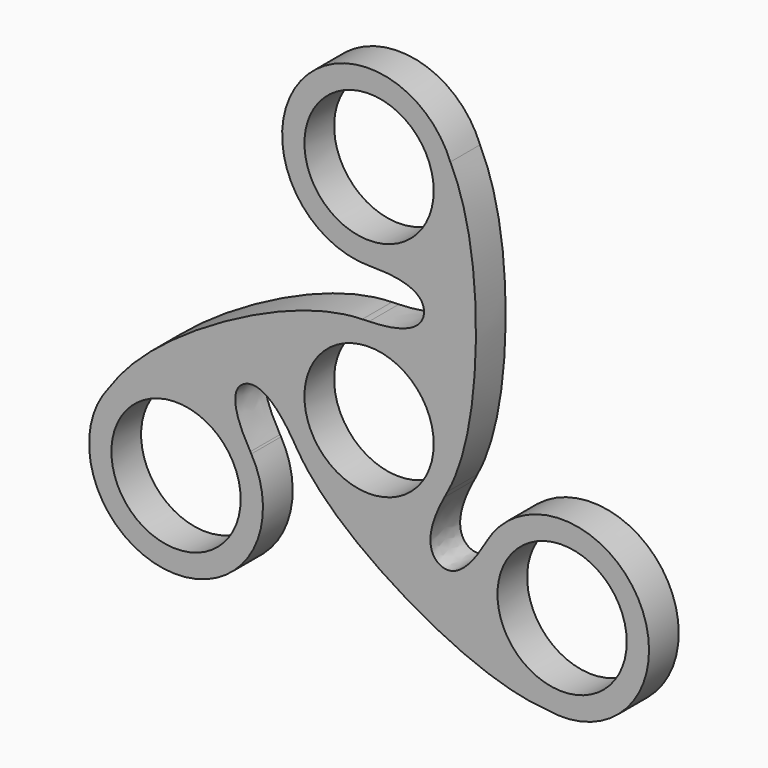
from build123d import *

# Parameters (mm, degrees)
F0_R     = 11.049
F1_DEPTH = 6.35
F2_COUNT = 3


with BuildPart() as f1:
    # F0 (on Front) → F1 (new body)
    with BuildSketch(Plane.XZ):
        with BuildLine():
            ThreePointArc((13.4135974742, -6.3925960142), (14.4931453775, -3.2769830737), (14.859, 0))
            ThreePointArc((14.859, 0), (10.5068996617, 10.5068996617), (0, 14.859))
            ThreePointArc((0, 14.859), (-12.5653783305, -7.9310244239), (13.4135974742, -6.3925960142))
        make_face()
        Circle(F0_R, mode=Mode.SUBTRACT)
        with BuildLine():
            ThreePointArc((0, 14.859), (10.5068996617, 10.5068996617), (14.859, 0))
            ThreePointArc((14.859, 0), (14.4931453775, -3.2769830737), (13.4135974742, -6.3925960142))
            add(Edge.make_bspline(
                [(13.8910684655, 43.3752343916), (16.9254968995, 37.3473139952), (19.6098146021, 19.8327864519), (16.9512654312, 0), (13.4135974742, -6.3925960142)],
                knots=[0, 0, 0, 0, 0.4877073649, 1, 1, 1, 1], degree=3))
            ThreePointArc((13.8910684655, 43.3752343916), (14.615013981, 40.7816501143), (14.859, 38.1))
            ThreePointArc((14.859, 38.1), (10.6233432063, 27.710848922), (0.3311771154, 23.2446910931))
            add(Edge.make_bspline(
                [(0.3311771154, 23.2446910931), (7.3705855559, 23.2935148535), (11.4778214909, 19.4237835164), (7.2408732958, 15.0520317256), (0, 14.859)],
                knots=[0.0075905592, 0.0075905592, 0.0075905592, 0.0075905592, 0.4969827456, 1, 1, 1, 1], degree=3))
        make_face()
        with BuildLine():
            add(Edge.make_bspline(
                [(0, 23.241), (0.1116059887, 23.2427057459), (0.2219946481, 23.243933828), (0.3311771154, 23.2446910931)],
                knots=[0, 0, 0, 0, 0.0075905592, 0.0075905592, 0.0075905592, 0.0075905592], degree=3))
            ThreePointArc((0.3311771154, 23.2446910931), (10.6233432063, 27.710848922), (14.859, 38.1))
            ThreePointArc((14.859, 38.1), (14.615013981, 40.7816501143), (13.8910684655, 43.3752343916))
            ThreePointArc((13.8910684655, 43.3752343916), (-12.2305884737, 46.5381625125), (0, 23.241))
        make_face()
        with Locations((0, 38.1)):
            Circle(F0_R, mode=Mode.SUBTRACT)
        with BuildLine():
            ThreePointArc((0, 23.241), (0.165598842, 23.2419228019), (0.3311771154, 23.2446910931))
            add(Edge.make_bspline(
                [(0, 23.241), (0.1116059887, 23.2427057459), (0.2219946481, 23.243933828), (0.3311771154, 23.2446910931)],
                knots=[0, 0, 0, 0, 0.0075905592, 0.0075905592, 0.0075905592, 0.0075905592], degree=3))
        make_face()
    extrude(amount=F1_DEPTH)

    # F2: F1 ×3 about axis
    f2_axis = Axis((0, -6.35, 0), (0, -1, 0))


with BuildPart() as f1_1:
    add(f1.part)
    for i in range(1, F2_COUNT):
        add(f1.part.rotate(f2_axis, i * 360 / F2_COUNT))


solid = f1_1.part
